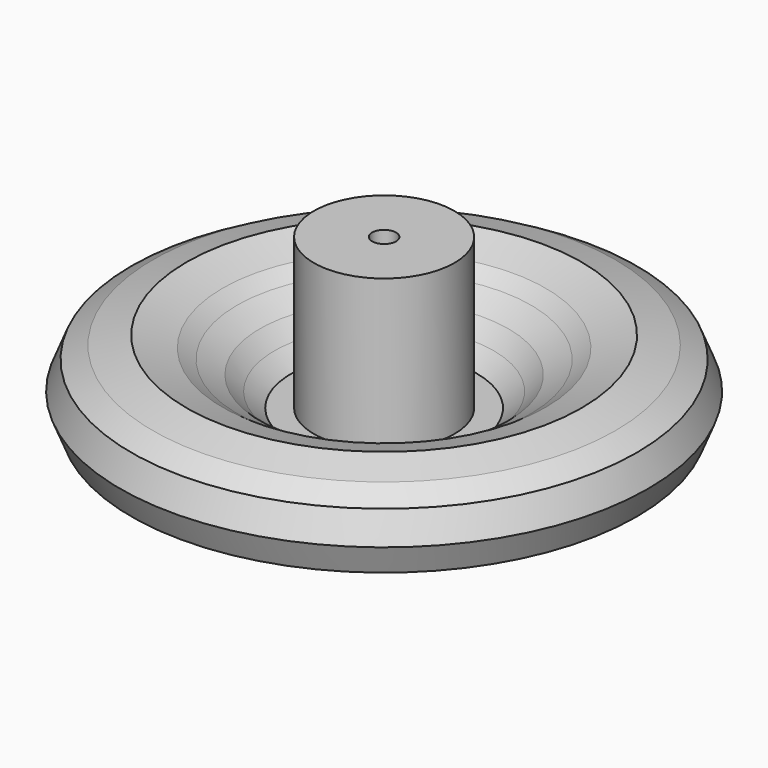
from build123d import *


with BuildPart() as f1:
    # F0 (on Front) → F1 (revolve)
    with BuildSketch(Plane.XZ):
        Polygon((0, 42.545), (0, 22.225), (3.175, 22.225), (3.175, 0), (62.658606, 22.225), (66.898495, 21.983771), (69.878384, 29.433491), (66.898495, 36.883211), (61.236706, 40.16109), (52.297037, 42.545), (42.761397, 39.56511), (38.887545, 36.883211), (32.927763, 33.307345), (29.05391, 29.433491), (24.584077, 25.559634), (18.624302, 25.559634), (18.624302, 36.883211), (18.624302, 48.504775), (18.624302, 65.405), (3.175, 65.405), (3.175, 42.545), align=None)
    revolve(axis=Axis((0, 0, 32.385), (0, 0, -1)))


solid = f1.part
